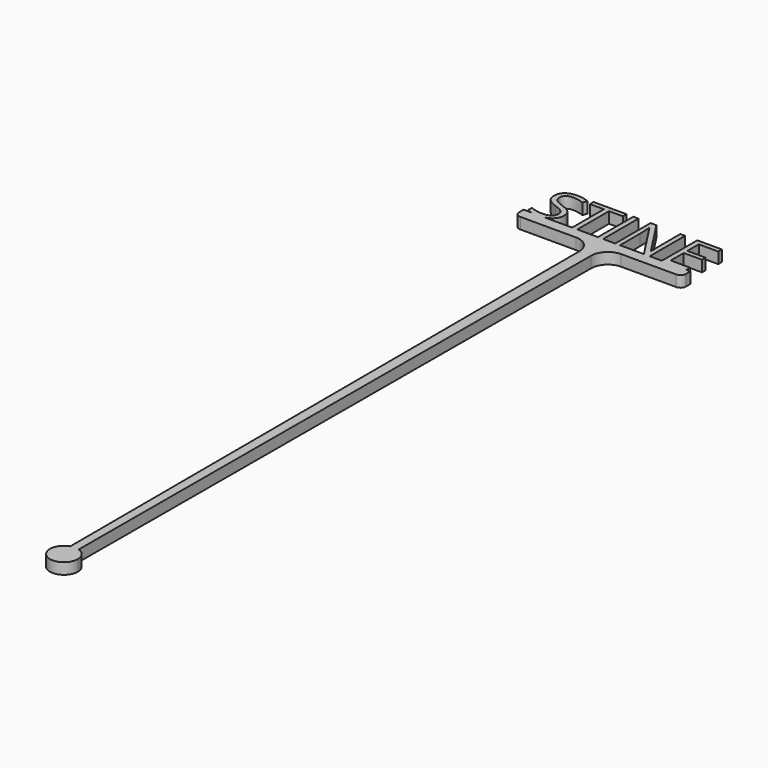
from build123d import *

# Parameters (mm, degrees)
F0_W     = 0.9233176839
F0_H     = 7.9447052686
F1_DEPTH = 2


with BuildPart() as f1:
    # F0 (on Top) → F1 (new body)
    with BuildSketch(Plane.XY):
        Polygon((-6.278038602, 7.1239784385), (-6.278038602, 0), (-5.3547209181, 0), (-5.3547209181, 7.1239784385), (-2.8386367588, 7.1239784385), (-2.8386367588, 7.9447052686), (-8.7941227613, 7.9447052686), (-8.7941227613, 7.1239784385), align=None)
        with BuildLine():
            Line((-5.3547209181, 0), (-6.278038602, 0))
            Line((-6.278038602, 0), (-11.2261389214, 0))
            add(Edge.make_bspline(
                [(-11.2261389214, 0), (-11.6878851089, -0.1095461659), (-12.2509128847, -0.1095461659)],
                knots=[0.5682703015, 0.5682703015, 0.5682703015, 1, 1, 1], degree=2))
            add(Edge.make_bspline(
                [(-12.2509128847, -0.1095461659), (-13.0242578972, -0.1095461659), (-13.6025064048, 0)],
                knots=[0, 0, 0, 0.5477225575, 0.5477225575, 0.5477225575], degree=2))
            Line((-13.6025064048, 0), (-15, 0))
            Line((-15, 0), (-15, -1))
            ThreePointArc((-15, -1), (-14.7071067812, -1.7071067812), (-14, -2))
            Line((-14, -2), (-3.9937565104, -2))
            ThreePointArc((-3.9937565104, -2), (-1.8746470228, -2.8764711022), (-0.9937630208, -4.9937500136))
            Line((-0.9937630208, -4.9937500136), (-0.7549651684, -119.6167191533))
            ThreePointArc((-0.7549651684, -119.6167191533), (0.0015611574, -119.5000004874), (0.7579411203, -119.6176639074))
            Line((0.7579411203, -119.6176639074), (1.1400333331, -4.9900000556))
            ThreePointArc((1.1400333331, -4.9900000556), (2.0222347885, -2.8751470835), (4.1400166666, -2))
            Line((4.1400166666, -2), (14, -2))
            ThreePointArc((14, -2), (14.7071067812, -1.7071067812), (15, -1))
            Line((15, -1), (15, 0))
            Line((15, 0), (14.2783863676, 0))
            Line((14.2783863676, 0), (9.8495913754, 0))
            Line((9.8495913754, 0), (7.6656233698, 0))
            Line((7.6656233698, 0), (6.6118935837, 0))
            Line((6.6118935837, 0), (2.3135106938, 0))
            Line((2.3135106938, 0), (1.4597461311, 0))
            Line((1.4597461311, 0), (-0.7190053904, 0))
            Line((-0.7190053904, 0), (-1.6423230742, 0))
            Line((-1.6423230742, 0), (-5.3547209181, 0))
        make_face()
        with BuildLine():
            add(Edge.make_bspline(
                [(-11.2261389214, 0), (-11.6878851089, -0.1095461659), (-12.2509128847, -0.1095461659)],
                knots=[0.5682703015, 0.5682703015, 0.5682703015, 1, 1, 1], degree=2))
            Line((-11.2261389214, 0), (-13.6025064048, 0))
            add(Edge.make_bspline(
                [(-12.2509128847, -0.1095461659), (-13.0242578972, -0.1095461659), (-13.6025064048, 0)],
                knots=[0, 0, 0, 0.5477225575, 0.5477225575, 0.5477225575], degree=2))
        make_face()
        with BuildLine():
            Line((-13.6025064048, 0), (-11.2261389214, 0))
            add(Edge.make_bspline(
                [(-10.1860545992, 0.4781777082), (-10.6183589931, 0.1441916851), (-11.2261389214, 0)],
                knots=[0, 0, 0, 0.5682703015, 0.5682703015, 0.5682703015], degree=2))
            add(Edge.make_bspline(
                [(-9.4253173361, 2.1144148844), (-9.4253173361, 1.0659015823), (-10.1860545992, 0.4781777082)],
                knots=[0, 0, 0, 1, 1, 1], degree=2))
            add(Edge.make_bspline(
                [(-9.8948009042, 3.4394018432), (-9.4253173361, 2.9281864024), (-9.4253173361, 2.1144148844)],
                knots=[0, 0, 0, 1, 1, 1], degree=2))
            add(Edge.make_bspline(
                [(-11.6145018258, 4.3957572596), (-10.3642844723, 3.950617284), (-9.8948009042, 3.4394018432)],
                knots=[0, 0, 0, 1, 1, 1], degree=2))
            add(Edge.make_bspline(
                [(-12.7203964528, 4.881759694), (-12.3587202226, 4.6617979482), (-11.6145018258, 4.3957572596)],
                knots=[0, 0, 0, 1, 1, 1], degree=2))
            add(Edge.make_bspline(
                [(-13.2342201356, 5.3660233003), (-13.082072683, 5.1017214397), (-12.7203964528, 4.881759694)],
                knots=[0, 0, 0, 1, 1, 1], degree=2))
            add(Edge.make_bspline(
                [(-13.3863675882, 6.0424274039), (-13.3863675882, 5.6303251608), (-13.2342201356, 5.3660233003)],
                knots=[0, 0, 0, 1, 1, 1], degree=2))
            add(Edge.make_bspline(
                [(-12.9733959311, 6.917057903), (-13.3863675882, 6.6023300296), (-13.3863675882, 6.0424274039)],
                knots=[0, 0, 0, 1, 1, 1], degree=2))
            add(Edge.make_bspline(
                [(-11.8266388454, 7.2317857764), (-12.560424274, 7.2317857764), (-12.9733959311, 6.917057903)],
                knots=[0, 0, 0, 1, 1, 1], degree=2))
            add(Edge.make_bspline(
                [(-9.9139280125, 6.8196835333), (-10.8981046774, 7.2317857764), (-11.8266388454, 7.2317857764)],
                knots=[0, 0, 0, 1, 1, 1], degree=2))
            Line((-9.9139280125, 6.8196835333), (-9.6252825596, 7.6230220831))
            add(Edge.make_bspline(
                [(-11.804034081, 8.0577290906), (-10.6198921927, 8.0577290906), (-9.6252825596, 7.6230220831)],
                knots=[0, 0, 0, 1, 1, 1], degree=2))
            add(Edge.make_bspline(
                [(-13.6306729264, 7.5143453312), (-12.9412276126, 8.0577290906), (-11.804034081, 8.0577290906)],
                knots=[0, 0, 0, 1, 1, 1], degree=2))
            add(Edge.make_bspline(
                [(-14.3201182403, 6.0528603721), (-14.3201182403, 6.9709615719), (-13.6306729264, 7.5143453312)],
                knots=[0, 0, 0, 1, 1, 1], degree=2))
            add(Edge.make_bspline(
                [(-13.8445487741, 4.6348461137), (-14.3201182403, 5.1782298731), (-14.3201182403, 6.0528603721)],
                knots=[0, 0, 0, 1, 1, 1], degree=2))
            add(Edge.make_bspline(
                [(-12.2613458529, 3.6950095636), (-13.3689793079, 4.0914623544), (-13.8445487741, 4.6348461137)],
                knots=[0, 0, 0, 1, 1, 1], degree=2))
            add(Edge.make_bspline(
                [(-11.0798122066, 3.1898800209), (-11.4684402713, 3.4133194227), (-12.2613458529, 3.6950095636)],
                knots=[0, 0, 0, 1, 1, 1], degree=2))
            add(Edge.make_bspline(
                [(-10.525126065, 2.7030081725), (-10.6911841419, 2.966440619), (-11.0798122066, 3.1898800209)],
                knots=[0, 0, 0, 1, 1, 1], degree=2))
            add(Edge.make_bspline(
                [(-10.3590679882, 2.0274734829), (-10.3590679882, 2.439575726), (-10.525126065, 2.7030081725)],
                knots=[0, 0, 0, 1, 1, 1], degree=2))
            add(Edge.make_bspline(
                [(-10.8268127282, 1.0511215441), (-10.3590679882, 1.4014953921), (-10.3590679882, 2.0274734829)],
                knots=[0, 0, 0, 1, 1, 1], degree=2))
            add(Edge.make_bspline(
                [(-12.2178751521, 0.7007476961), (-11.2945574683, 0.7007476961), (-10.8268127282, 1.0511215441)],
                knots=[0, 0, 0, 1, 1, 1], degree=2))
            add(Edge.make_bspline(
                [(-13.3585463398, 0.8207268301), (-12.7829942619, 0.7007476961), (-12.2178751521, 0.7007476961)],
                knots=[0, 0, 0, 1, 1, 1], degree=2))
            add(Edge.make_bspline(
                [(-14.4244479221, 1.1458876717), (-13.9340984177, 0.9407059642), (-13.3585463398, 0.8207268301)],
                knots=[0, 0, 0, 1, 1, 1], degree=2))
            Line((-14.4244479221, 1.1458876717), (-14.4244479221, 0.2556077204))
            add(Edge.make_bspline(
                [(-13.6025064048, 0), (-14.079990402, 0.0904568546), (-14.4244479221, 0.2556077204)],
                knots=[0.5477225575, 0.5477225575, 0.5477225575, 1, 1, 1], degree=2))
        make_face()
        with Locations((-1.1806642323, 3.9723526343)):
            Rectangle(F0_W, F0_H)
        with BuildLine():
            Line((1.4597461311, 7.9447052686), (1.4597461311, 0))
            Line((1.4597461311, 0), (2.3135106938, 0))
            Line((2.3135106938, 0), (2.3135106938, 4.5157363937))
            add(Edge.make_bspline(
                [(2.2265692923, 6.6666666667), (2.3135106938, 5.4929577465), (2.3135106938, 4.5157363937)],
                knots=[0, 0, 0, 1, 1, 1], degree=2))
            Line((2.2265692923, 6.6666666667), (2.270039993, 6.6666666667))
            Line((2.270039993, 6.6666666667), (6.6118935837, 0))
            Line((6.6118935837, 0), (7.6656233698, 0))
            Line((7.6656233698, 0), (7.6656233698, 7.9447052686))
            Line((7.6656233698, 7.9447052686), (6.801425839, 7.9447052686))
            Line((6.801425839, 7.9447052686), (6.801425839, 3.3854981742))
            add(Edge.make_bspline(
                [(6.8292470875, 2.2465658146), (6.7909928708, 3.0429490523), (6.801425839, 3.3854981742)],
                knots=[0, 0, 0, 1, 1, 1], degree=2))
            add(Edge.make_bspline(
                [(6.8779342723, 1.3041210224), (6.8675013041, 1.4501825769), (6.8292470875, 2.2465658146)],
                knots=[0, 0, 0, 1, 1, 1], degree=2))
            Line((6.8779342723, 1.3041210224), (6.8344635716, 1.3041210224))
            Line((6.8344635716, 1.3041210224), (2.5030429491, 7.9447052686))
            Line((2.5030429491, 7.9447052686), (1.4597461311, 7.9447052686))
        make_face()
        Polygon((9.8495913754, 7.9447052686), (9.8495913754, 0), (14.2783863676, 0), (14.2783863676, 0.8259433142), (10.7729090593, 0.8259433142), (10.7729090593, 3.7489132325), (14.0662493479, 3.7489132325), (14.0662493479, 4.5644235785), (10.7729090593, 4.5644235785), (10.7729090593, 7.1239784385), (14.2783863676, 7.1239784385), (14.2783863676, 7.9447052686), align=None)
        with BuildLine():
            ThreePointArc((0.7579411203, -119.6176639074), (0.0015611574, -119.5000004874), (-0.7549651684, -119.6167191533))
            ThreePointArc((-0.7549651684, -119.6167191533), (-1.4769202888, -124.0171034829), (2.5, -122))
            ThreePointArc((2.5, -122), (2.0180253716, -120.5243396056), (0.7579411203, -119.6176639074))
        make_face()
    extrude(amount=F1_DEPTH)


solid = f1.part
